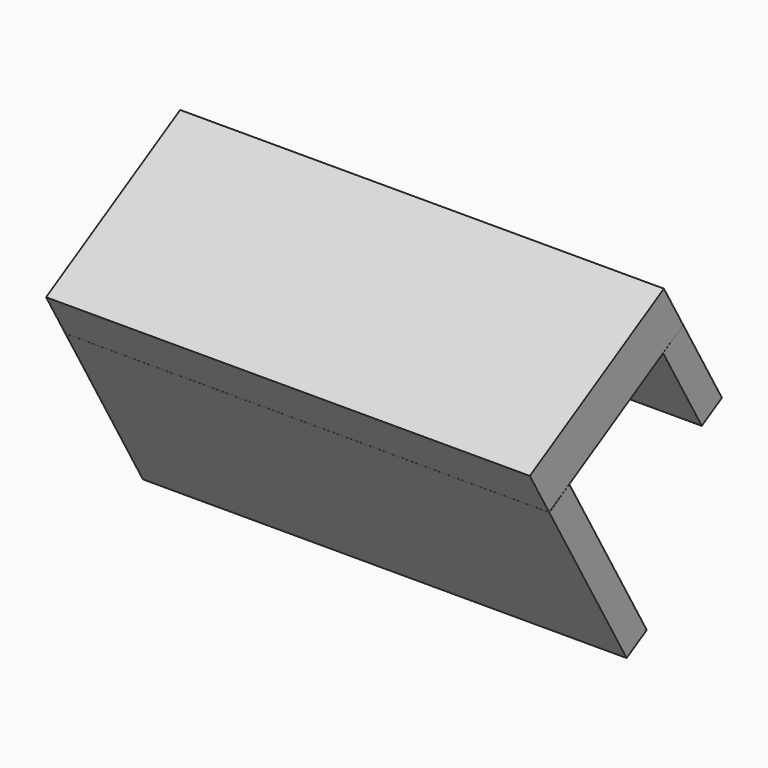
from build123d import *

# Parameters (mm, degrees)
SKETCH060_W             = 50
SKETCH060_H             = 20
PAD059_DEPTH            = 5
SKETCH061_W             = 50
SKETCH061_H             = 3
PAD060_DEPTH            = 20
SKETCH062_W             = 50
SKETCH062_H             = 10
PAD061_DEPTH            = 3
BODY044_ROLL_ANGLE      = 150
BODY044_PLACEMENT_ANGLE = 180


with BuildPart() as part:
    # Sketch060 → Pad059 (new body)
    with BuildSketch(Plane.XY):
        with Locations((184.845276, -123.914059)):
            Rectangle(SKETCH060_W, SKETCH060_H)
    extrude(amount=PAD059_DEPTH)

    # Sketch061 (on Face6 of Pad059) → Pad060 (join)
    with BuildSketch(Plane.XY.offset(5)):
        with Locations((184.83606, -132.417099)):
            Rectangle(SKETCH061_W, SKETCH061_H)
    extrude(amount=PAD060_DEPTH)

    # Sketch062 (on Face7 of Pad060) → Pad061 (join)
    with BuildSketch(Plane(origin=(0, -113.914059, 0), x_dir=(-1, 0, 0), z_dir=(0, 1, 0))):
        with Locations((-184.841869, 9.989668)):
            Rectangle(SKETCH062_W, SKETCH062_H)
    extrude(amount=-PAD061_DEPTH)


with BuildPart() as part_1:
    # Body044 roll: moved
    add(part.part.rotate(Axis((0, 0, 0), (1, 0, 0)), BODY044_ROLL_ANGLE))


with BuildPart() as part_2:
    # Body044 placement: moved
    add(part_1.part.moved(Location((93.323153, 90.443186, 267.034204))).rotate(Axis((93.323153, 90.443186, 267.034204), (0, 0, 1)), BODY044_PLACEMENT_ANGLE))


solid = part_2.part
